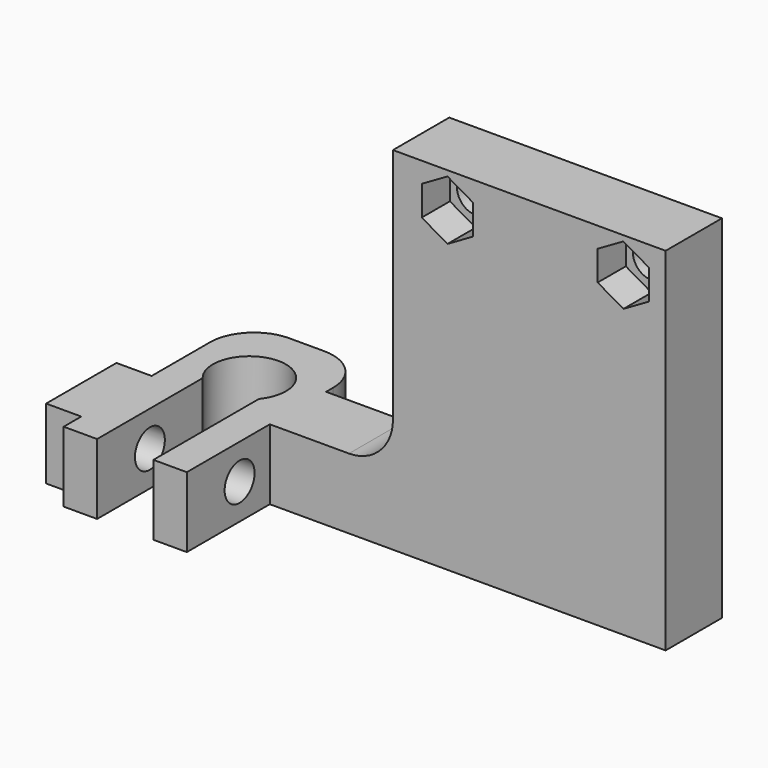
from build123d import *

# Parameters (mm, degrees)
F1_DEPTH  = 4
F2_R      = 5
F3_R      = 2.125
F4_DEPTH  = 25
F5_W      = 10
F5_H      = 8
F6_DEPTH  = 4
F7_W      = 45
F7_H      = 8
F8_DEPTH  = 36
F9_W      = 45
F9_H      = 8
F10_DEPTH = 4
F11_R     = 2.125
F12_DEPTH = 25
F14_DEPTH = 4
F15_W     = 14
F15_H     = 32
F16_DEPTH = 25
F17_R     = 5


with BuildPart() as f1:
    # F0 (on Top) → F1 (new body, symmetric)
    with BuildSketch(Plane.XY):
        with BuildLine():
            ThreePointArc((-3.2, -2.642442), (0, 4.15), (3.2, -2.642442))
            Line((3.2, -2.642442), (3.2, -17.642442))
            Line((3.2, -17.642442), (7, -17.642442))
            Line((7, -17.642442), (7, -2.65))
            Line((7, -2.65), (7, -1.85))
            Line((7, -1.85), (7, 2.35))
            Line((7, 2.35), (7, 8.15))
            Line((7, 8.15), (-7, 8.15))
            Line((-7, 8.15), (-7, 3.15))
            Line((-7, 3.15), (-7, -17.642442))
            Line((-7, -17.642442), (-3.2, -17.642442))
            Line((-3.2, -17.642442), (-3.2, -2.642442))
        make_face()
    extrude(amount=F1_DEPTH, both=True)

    # F2
    f2_edges = [f1.edges().sort_by_distance(p)[0] for p in [
        (-7, 8.15, 0),
    ]]
    fillet(f2_edges, radius=F2_R)

    # F3 (on face) → F4 (cut)
    with BuildSketch(Plane(origin=(-7, 0, 0), x_dir=(0, -1, 0), z_dir=(-1, 0, 0))):
        with Locations((10.142442, 0)):
            Circle(F3_R)
    extrude(amount=-F4_DEPTH, mode=Mode.SUBTRACT)

    # F5 (on face) → F6 (join)
    with BuildSketch(Plane(origin=(-7, 0, 0), x_dir=(0, -1, 0), z_dir=(-1, 0, 0))):
        with Locations((10.142442, 0)):
            Rectangle(F5_W, F5_H)
        Polygon((10.142442, 3.377499), (13.067442, 1.68875), (13.067442, -1.68875), (10.142442, -3.377499), (7.217442, -1.68875), (7.217442, 1.68875), align=None, mode=Mode.SUBTRACT)
    extrude(amount=F6_DEPTH)

    # F7 (on Top) → F8 (join)
    with BuildSketch(Plane.XY):
        with Locations((29.5, -1.85)):
            Rectangle(F7_W, F7_H)
    extrude(amount=F8_DEPTH)

    # F9 (on face) → F10 (join)
    with BuildSketch(Plane(origin=(0, 0, 0), x_dir=(1, 0, 0), z_dir=(0, 0, -1))):
        with Locations((29.5, 1.85)):
            Rectangle(F9_W, F9_H)
    extrude(amount=F10_DEPTH)

    # F11 (on face) → F12 (cut)
    with BuildSketch(Plane.XZ.offset(5.85)):
        with Locations((27.2, 32)):
            Circle(F11_R)
        with Locations((47.2, 32)):
            Circle(F11_R)
    extrude(amount=-F12_DEPTH, mode=Mode.SUBTRACT)

    # F13 (on face) → F14 (cut)
    with BuildSketch(Plane.XZ.offset(5.85)):
        Polygon((30.125, 30.31125), (30.125, 33.68875), (27.2, 35.377499), (24.275, 33.68875), (24.275, 30.31125), (27.2, 28.622501), align=None)
        Polygon((44.275, 33.68875), (44.275, 30.31125), (47.2, 28.622501), (50.125, 30.31125), (50.125, 33.68875), (47.2, 35.377499), align=None)
    extrude(amount=-F14_DEPTH, mode=Mode.SUBTRACT)

    # F15 (on face) → F16 (cut)
    with BuildSketch(Plane(origin=(0, 2.15, 0), x_dir=(-1, 0, 0), z_dir=(0, 1, 0))):
        with Locations((-14, 20)):
            Rectangle(F15_W, F15_H)
    extrude(amount=-F16_DEPTH, mode=Mode.SUBTRACT)

    # F17
    f17_edges = [f1.edges().sort_by_distance(p)[0] for p in [
        (21, -1.85, 4),
        (7, 8.15, 0),
    ]]
    fillet(f17_edges, radius=F17_R)


solid = f1.part
